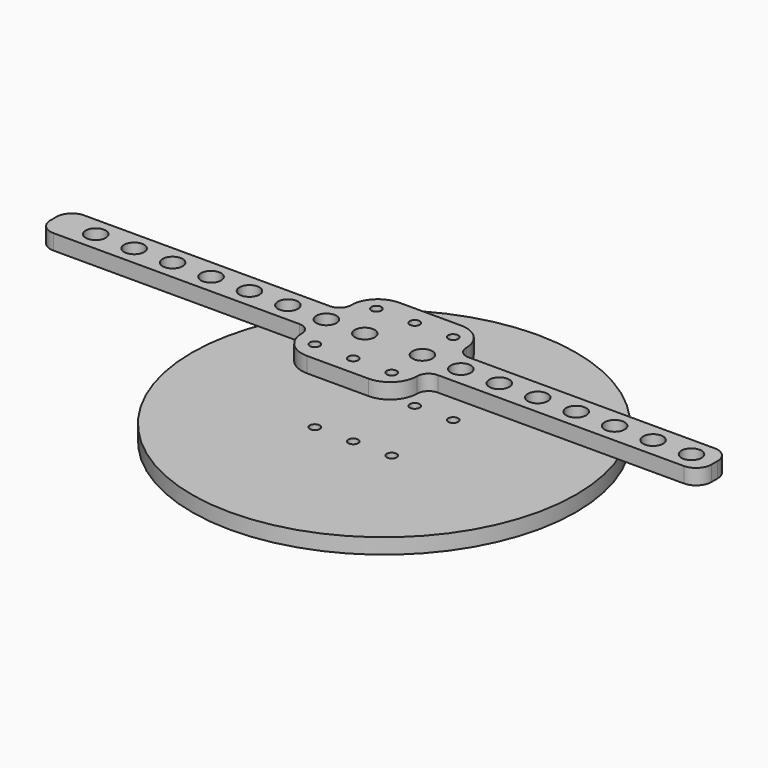
from build123d import *

# Parameters (mm, degrees)
F0_R     = 1.3
F0_R_2   = 2.6
F1_DEPTH = 4
F3_R     = 50
F3_R_2   = 1.3
F4_DEPTH = 4


with BuildPart() as f1:
    # F0 (on Top) → F1 (new body)
    with BuildSketch(Plane.XY):
        with BuildLine():
            Line((8, 15), (-8, 15))
            ThreePointArc((-8, 15), (-12.949747, 12.949747), (-15, 8))
            ThreePointArc((-15, 8), (-15.87868, 5.87868), (-18, 5))
            Line((-18, 5), (-82, 5))
            ThreePointArc((-82, 5), (-84.828427, 3.828427), (-86, 1))
            Line((-86, 1), (-86, -1))
            ThreePointArc((-86, -1), (-84.828427, -3.828427), (-82, -5))
            Line((-82, -5), (-18, -5))
            ThreePointArc((-18, -5), (-15.87868, -5.87868), (-15, -8))
            ThreePointArc((-15, -8), (-12.949747, -12.949747), (-8, -15))
            Line((-8, -15), (8, -15))
            ThreePointArc((8, -15), (12.949747, -12.949747), (15, -8))
            ThreePointArc((15, -8), (15.87868, -5.87868), (18, -5))
            Line((18, -5), (82, -5))
            ThreePointArc((82, -5), (84.828427, -3.828427), (86, -1))
            Line((86, -1), (86, 1))
            ThreePointArc((86, 1), (84.828427, 3.828427), (82, 5))
            Line((82, 5), (18, 5))
            ThreePointArc((18, 5), (15.87868, 5.87868), (15, 8))
            ThreePointArc((15, 8), (12.949747, 12.949747), (8, 15))
        make_face()
        with Locations((-10, -10)):
            Circle(F0_R, mode=Mode.SUBTRACT)
        with Locations((0, -10)):
            Circle(F0_R, mode=Mode.SUBTRACT)
        with Locations((10, -10)):
            Circle(F0_R, mode=Mode.SUBTRACT)
        with Locations((-75, 0)):
            Circle(F0_R_2, mode=Mode.SUBTRACT)
        with Locations((-65, 0)):
            Circle(F0_R_2, mode=Mode.SUBTRACT)
        with Locations((-55, 0)):
            Circle(F0_R_2, mode=Mode.SUBTRACT)
        with Locations((-45, 0)):
            Circle(F0_R_2, mode=Mode.SUBTRACT)
        with Locations((-35, 0)):
            Circle(F0_R_2, mode=Mode.SUBTRACT)
        with Locations((-25, 0)):
            Circle(F0_R_2, mode=Mode.SUBTRACT)
        with Locations((-15, 0)):
            Circle(F0_R_2, mode=Mode.SUBTRACT)
        with Locations((-5, 0)):
            Circle(F0_R_2, mode=Mode.SUBTRACT)
        with Locations((-10, 10)):
            Circle(F0_R, mode=Mode.SUBTRACT)
        with Locations((10, 0)):
            Circle(F0_R_2, mode=Mode.SUBTRACT)
        with Locations((20, 0)):
            Circle(F0_R_2, mode=Mode.SUBTRACT)
        with Locations((30, 0)):
            Circle(F0_R_2, mode=Mode.SUBTRACT)
        with Locations((40, 0)):
            Circle(F0_R_2, mode=Mode.SUBTRACT)
        with Locations((50, 0)):
            Circle(F0_R_2, mode=Mode.SUBTRACT)
        with Locations((60, 0)):
            Circle(F0_R_2, mode=Mode.SUBTRACT)
        with Locations((70, 0)):
            Circle(F0_R_2, mode=Mode.SUBTRACT)
        with Locations((80, 0)):
            Circle(F0_R_2, mode=Mode.SUBTRACT)
        with Locations((0, 10)):
            Circle(F0_R, mode=Mode.SUBTRACT)
        with Locations((10, 10)):
            Circle(F0_R, mode=Mode.SUBTRACT)
    extrude(amount=F1_DEPTH)


with BuildPart() as f4:
    # F3 (on offset) → F4 (new body)
    with BuildSketch(Plane.XY.offset(-15)):
        Circle(F3_R)
        with Locations((-10, -10)):
            Circle(F3_R_2, mode=Mode.SUBTRACT)
        with Locations((0, -10)):
            Circle(F3_R_2, mode=Mode.SUBTRACT)
        with Locations((10, -10)):
            Circle(F3_R_2, mode=Mode.SUBTRACT)
        with Locations((-10, 10)):
            Circle(F3_R_2, mode=Mode.SUBTRACT)
        with Locations((0, 10)):
            Circle(F3_R_2, mode=Mode.SUBTRACT)
        with Locations((10, 10)):
            Circle(F3_R_2, mode=Mode.SUBTRACT)
    extrude(amount=-F4_DEPTH)


solid = Compound([f1.part, f4.part])
